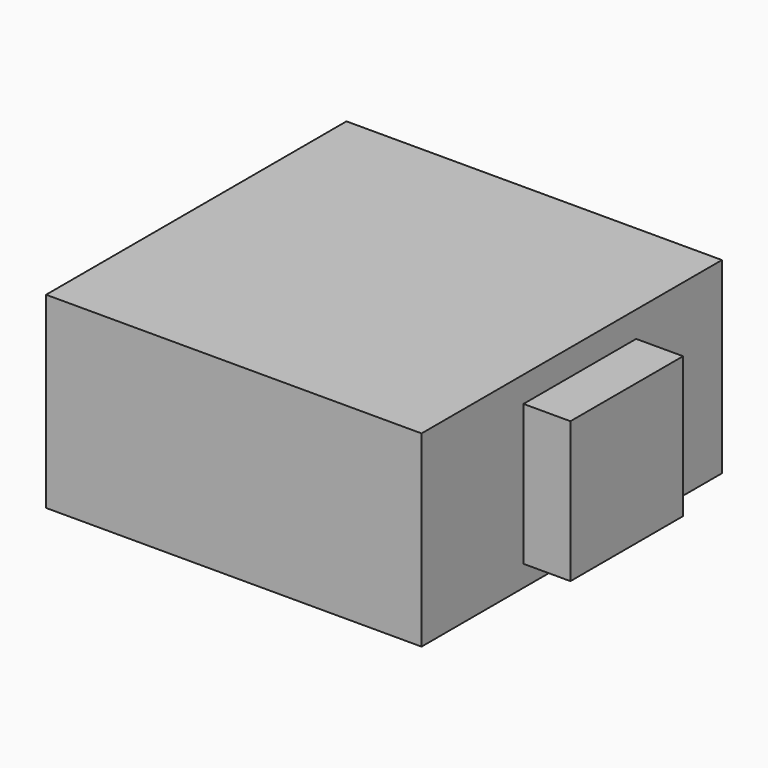
from build123d import *

# Parameters (mm, degrees)
F0_W     = 40
F0_H     = 40
F1_DEPTH = 20
F2_W     = 15
F2_H     = 15
F4_DEPTH = 5
F7_DEPTH = 5


with BuildPart() as f1:
    # F0 (on Top) → F1 (new body)
    with BuildSketch(Plane.XY):
        with Locations((-25.1250002766, 2.5922219666)):
            Rectangle(F0_W, F0_H)
    extrude(amount=F1_DEPTH)


with BuildPart() as f3_1:
    # F3: copy of F1
    add(f1.part)


with BuildPart() as f4:
    # F2 (on face) → F4 (new body)
    with BuildSketch(Plane.YZ.offset(-5.1250002766)):
        with Locations((3.6685534939, 9.7496453021)):
            Rectangle(F2_W, F2_H)
    extrude(amount=F4_DEPTH)


with BuildPart() as f6_1:
    # F6: copy of F1
    add(f1.part)

    # F2 (on face) → F7 (cut)
    with BuildSketch(Plane.YZ.offset(-5.1250002766)):
        with Locations((3.6685534939, 9.7496453021)):
            Rectangle(F2_W, F2_H)
    extrude(amount=-F7_DEPTH, mode=Mode.SUBTRACT)


solid = Compound([f1.part, f4.part, f6_1.part])
